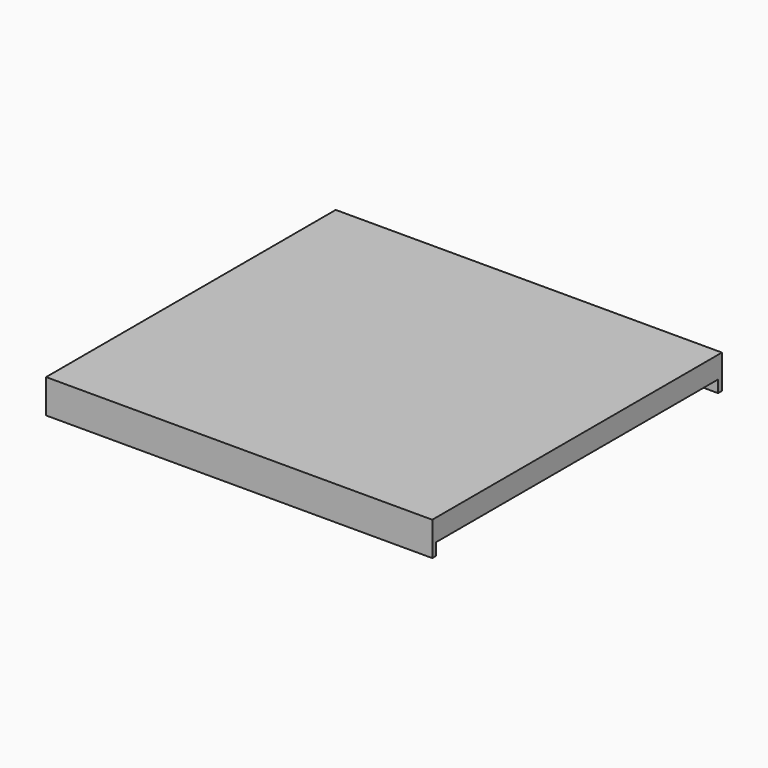
from build123d import *

# Parameters (mm, degrees)
SKETCH003_W          = 16
SKETCH003_H          = 15
PAD001_DEPTH         = 1.4
THICKNESS_T          = -0.2
SKETCH004_W          = 14.6
SKETCH004_H          = 0.5
POCKET002_DEPTH      = 8.001
POCKET002_DEPTH_BACK = 8.001


with BuildPart() as part:
    # Sketch003 → Pad001 (new body)
    with BuildSketch(Plane.XY):
        Rectangle(SKETCH003_W, SKETCH003_H)
    extrude(amount=PAD001_DEPTH)

    # Thickness
    thickness_openings = [part.faces().sort_by_distance(p)[0] for p in [
        (0, 0, 0),
    ]]
    offset(amount=THICKNESS_T, openings=thickness_openings)

    # Sketch004 → Pocket002 (cut, two sides)
    with BuildSketch(Plane.YZ) as pocket002_sk:
        with Locations((0, 0.25)):
            Rectangle(SKETCH004_W, SKETCH004_H)
    extrude(amount=-POCKET002_DEPTH, mode=Mode.SUBTRACT)
    extrude(pocket002_sk.sketch, amount=POCKET002_DEPTH_BACK, mode=Mode.SUBTRACT)


with BuildPart() as part_1:
    # Body001 placement: moved
    add(part.part.moved(Location((0, 0, 0.6348))))


solid = part_1.part
